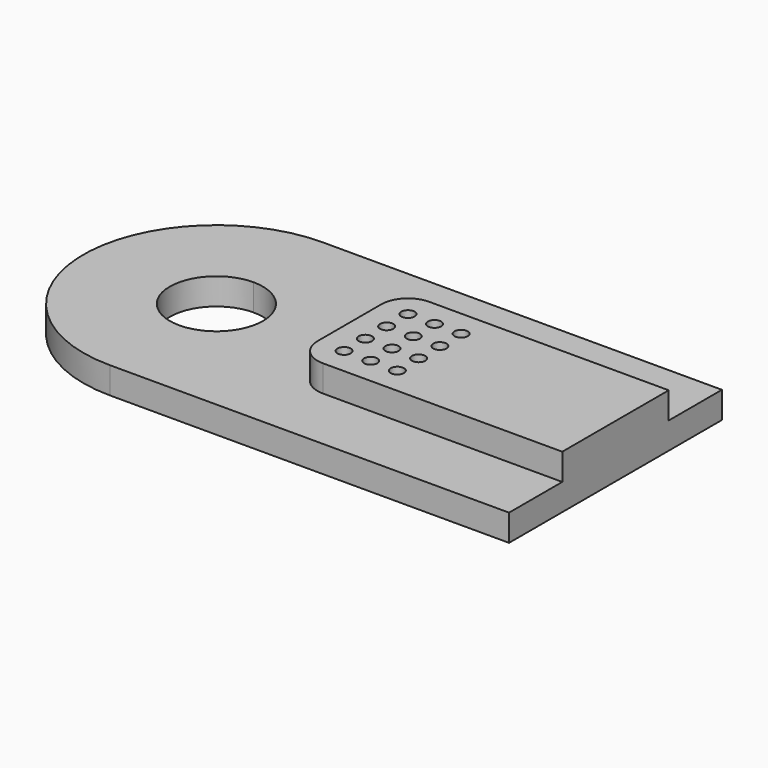
from build123d import *

# Parameters (mm, degrees)
F1_DEPTH = 10
F3_DEPTH = 10
F5_D     = 5
F5_DEPTH = 5
F5_TIP   = 1.5021515476


with BuildPart() as f1:
    # F0 (on Top) → F1 (new body)
    with BuildSketch(Plane.XY):
        with BuildLine():
            ThreePointArc((0, 17.5), (12.3743686708, 12.3743686708), (17.5, 0))
            ThreePointArc((17.5, 0), (12.3743686708, -12.3743686708), (0, -17.5))
            Line((0, -17.5), (0, -50))
            Line((0, -50), (150, -50))
            Line((150, -50), (150, 50))
            Line((150, 50), (0, 50))
            Line((0, 50), (0, 17.5))
        make_face()
        with BuildLine():
            ThreePointArc((0, -17.5), (-17.5, 0), (0, 17.5))
            Line((0, 17.5), (0, 50))
            ThreePointArc((0, 50), (-50, 0), (0, -50))
            Line((0, -50), (0, -17.5))
        make_face()
    extrude(amount=F1_DEPTH)

    # F2 (on face) → F3 (join)
    with BuildSketch(Plane.XY.offset(10)):
        with BuildLine():
            Line((150, -25), (150, 25))
            Line((150, 25), (60, 25))
            ThreePointArc((60, 25), (52.9289321881, 22.0710678119), (50, 15))
            Line((50, 15), (50, -15))
            ThreePointArc((50, -15), (52.9289321881, -22.0710678119), (60, -25))
            Line((60, -25), (150, -25))
        make_face()
    extrude(amount=F3_DEPTH)

    # F5
    with Locations(Plane.XY.offset(20)):
        with Locations((60, 15), (70, 15), (80, 15), (60, 5), (70, 5), (80, 5), (60, -5), (70, -5), (80, -5), (60, -15), (70, -15), (80, -15)):
            Hole(F5_D / 2, depth=F5_DEPTH)
            with Locations((0, 0, -(F5_DEPTH + F5_TIP / 2))):  # 118° drill point
                Cone(0, F5_D / 2, F5_TIP, mode=Mode.SUBTRACT)


solid = f1.part
